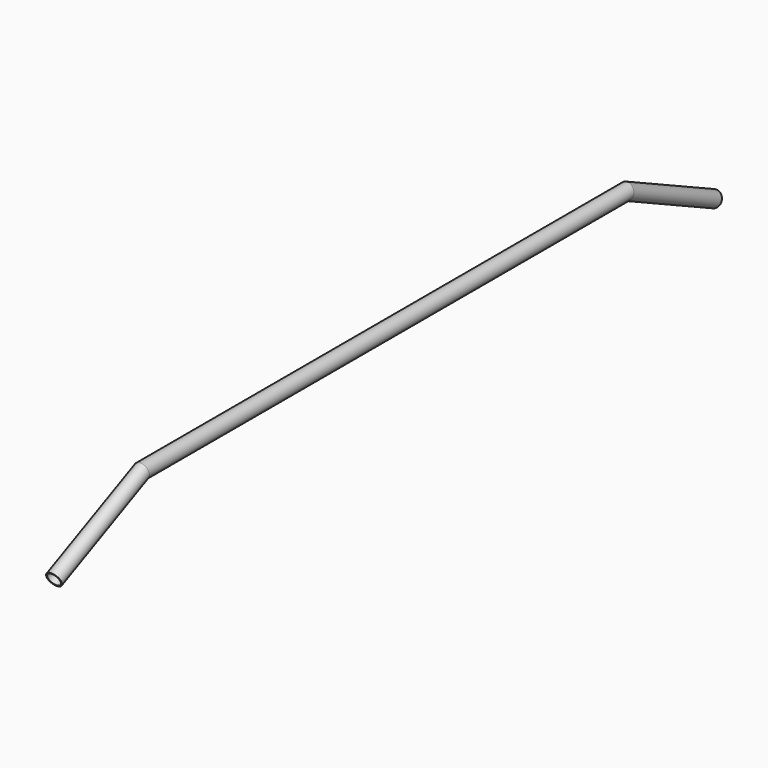
from build123d import *

# Parameters (mm, degrees)
F0_R   = 12.5
F0_R_2 = 11


with BuildPart() as f2:
    # F2: sweep along a path in F1
    with BuildLine(Plane.YZ) as f2_path:
        Line((0, 0), (500, 0))
        Line((500, 0), (681.2615574073, -84.5236523481))
    # F0 (on Front) → F2 (sweep)
    with BuildSketch(Plane.XZ):
        Circle(F0_R)
        Circle(F0_R_2, mode=Mode.SUBTRACT)
    sweep(path=f2_path.line, transition=Transition.RIGHT)

    # F3: sweep along a path in F1
    with BuildLine(Plane.YZ) as f3_path:
        Line((0, 0), (-500, 0))
        Line((-500, 0), (-681.2615574073, -84.5236523481))
    # F0 (on Front) → F3 (sweep)
    with BuildSketch(Plane.XZ):
        Circle(F0_R)
        Circle(F0_R_2, mode=Mode.SUBTRACT)
    sweep(path=f3_path.line, transition=Transition.RIGHT)


solid = f2.part
